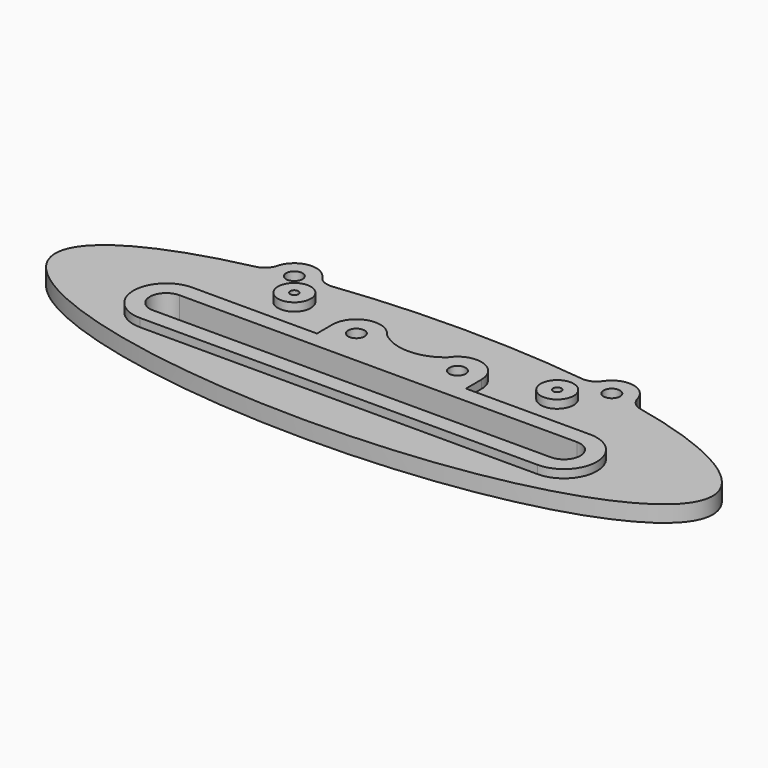
from build123d import *

# Parameters (mm, degrees)
F0_R     = 1.5875
F1_DEPTH = 4.7625
F0_R_2   = 3.175
F2_DEPTH = 3.175
F0_R_3   = 0.79375
F3_DEPTH = 4.7625


with BuildPart() as f1:
    # F0 (on Top) → F1 (new body)
    with BuildSketch(Plane.XY):
        with BuildLine():
            ThreePointArc((5.8970375136, 8.0709776401), (0, 5.8784868319), (-5.8970375136, 8.0709776401))
            ThreePointArc((-5.8970375136, 8.0709776401), (-11.0919363971, 9.9710945203), (-14.3974584471, 5.5359008893))
            Line((-14.3974584471, 5.5359008893), (-14.3974584471, 1.7910238821))
            Line((-14.3974584471, 1.7910238821), (-38.4256446949, 1.7910238821))
            ThreePointArc((-38.4256446949, 1.7910238821), (-44.775644668, -4.558976091), (-38.4256446949, -10.9089760641))
            Line((-38.4256446949, -10.9089760641), (38.4256446949, -10.9089760641))
            ThreePointArc((38.4256446949, -10.9089760641), (44.775644668, -4.558976091), (38.4256446949, 1.7910238821))
            Line((38.4256446949, 1.7910238821), (14.3974584471, 1.7910238821))
            Line((14.3974584471, 1.7910238821), (14.3974584471, 5.5359008893))
            ThreePointArc((14.3974584471, 5.5359008893), (11.0919363971, 9.9710945203), (5.8970375136, 8.0709776401))
        make_face()
        with BuildLine():
            ThreePointArc((-38.4256446949, -7.7339760641), (-41.6006446949, -4.5589760641), (-38.4256446949, -1.3839760641))
            Line((-38.4256446949, -1.3839760641), (38.4256446949, -1.3839760641))
            ThreePointArc((38.4256446949, -1.3839760641), (41.6006446949, -4.5589760641), (38.4256446949, -7.7339760641))
            Line((38.4256446949, -7.7339760641), (-38.4256446949, -7.7339760641))
        make_face(mode=Mode.SUBTRACT)
        with Locations((-9.769230575, 5.5359008893)):
            Circle(F0_R, mode=Mode.SUBTRACT)
        with Locations((9.769230575, 5.5359008893)):
            Circle(F0_R, mode=Mode.SUBTRACT)
    extrude(amount=F1_DEPTH)

    # F0 (on Top) → F2 (join)
    with BuildSketch(Plane.XY):
        with BuildLine():
            ThreePointArc((-24.1030436331, 17.6243126358), (-25.8193200805, 17.891793653), (-27.1380004421, 19.0223833409))
            ThreePointArc((-27.1380004421, 19.0223833409), (-31.3733022659, 20.8644178844), (-34.7810874927, 17.7470676241))
            ThreePointArc((-34.7810874927, 17.7470676241), (-35.6552985282, 16.2552803111), (-37.1815865182, 15.4428030538))
            add(Edge.make_bspline(
                [(-37.1815865182, 15.4428030538), (-196.360008544, -19.05), (0, -19.05), (196.360008544, -19.05), (37.1815865182, 15.4428030538)],
                knots=[5.3379310625, 5.3379310625, 5.3379310625, 7.853981634, 7.853981634, 10.3700322054, 10.3700322054, 10.3700322054], degree=2, weights=[1, 0.3076964173, 1, 0.3076964173, 1]))
            ThreePointArc((37.1815865182, 15.4428030538), (35.6552985282, 16.2552803111), (34.7810874927, 17.7470676241))
            ThreePointArc((34.7810874927, 17.7470676241), (31.3733022659, 20.8644178844), (27.1380004421, 19.0223833409))
            ThreePointArc((27.1380004421, 19.0223833409), (25.8193200805, 17.891793653), (24.1030436331, 17.6243126358))
            add(Edge.make_bspline(
                [(24.1030436331, 17.6243126358), (0, 20.5910158029), (-24.1030436331, 17.6243126358)],
                knots=[4.3230515768, 4.3230515768, 4.3230515768, 5.101726384, 5.101726384, 5.101726384], degree=2, weights=[1, 0.9251607683, 1]))
        make_face()
        with BuildLine():
            ThreePointArc((-14.3974584471, 5.5359008893), (-11.0919363971, 9.9710945203), (-5.8970375136, 8.0709776401))
            ThreePointArc((-5.8970375136, 8.0709776401), (0, 5.8784868319), (5.8970375136, 8.0709776401))
            ThreePointArc((5.8970375136, 8.0709776401), (11.0919363971, 9.9710945203), (14.3974584471, 5.5359008893))
            Line((14.3974584471, 5.5359008893), (14.3974584471, 1.7910238821))
            Line((14.3974584471, 1.7910238821), (38.4256446949, 1.7910238821))
            ThreePointArc((38.4256446949, 1.7910238821), (44.775644668, -4.558976091), (38.4256446949, -10.9089760641))
            Line((38.4256446949, -10.9089760641), (-38.4256446949, -10.9089760641))
            ThreePointArc((-38.4256446949, -10.9089760641), (-44.775644668, -4.558976091), (-38.4256446949, 1.7910238821))
            Line((-38.4256446949, 1.7910238821), (-14.3974584471, 1.7910238821))
            Line((-14.3974584471, 1.7910238821), (-14.3974584471, 5.5359008893))
        make_face(mode=Mode.SUBTRACT)
        with Locations((-25.4, 10.0948752699)):
            Circle(F0_R_2, mode=Mode.SUBTRACT)
        with Locations((-30.675064338, 16.6798123043)):
            Circle(F0_R, mode=Mode.SUBTRACT)
        with Locations((25.4, 10.0948752699)):
            Circle(F0_R_2, mode=Mode.SUBTRACT)
        with Locations((30.675064338, 16.6798123043)):
            Circle(F0_R, mode=Mode.SUBTRACT)
    extrude(amount=F2_DEPTH)

    # F0 (on Top) → F3 (join)
    with BuildSketch(Plane.XY):
        with Locations((-25.4, 10.0948752699)):
            Circle(F0_R_2)
        with Locations((-25.4, 10.0948752699)):
            Circle(F0_R_3, mode=Mode.SUBTRACT)
        with Locations((25.4, 10.0948752699)):
            Circle(F0_R_2)
        with Locations((25.4, 10.0948752699)):
            Circle(F0_R_3, mode=Mode.SUBTRACT)
    extrude(amount=F3_DEPTH)


solid = f1.part
